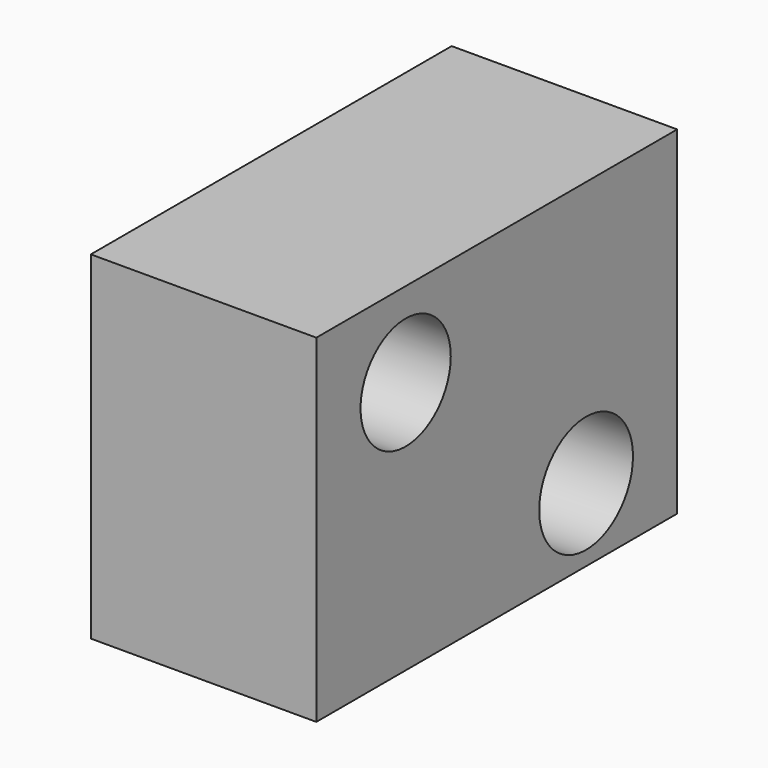
from build123d import *

# Parameters (mm, degrees)
F0_W     = 100
F0_H     = 75
F1_DEPTH = 25
F2_R     = 12.5
F2_R_2   = 13
F3_DEPTH = 50


with BuildPart() as f1:
    # F0 (on Right) → F1 (new body, symmetric)
    with BuildSketch(Plane.YZ):
        with Locations((0.247445, 1.312858)):
            Rectangle(F0_W, F0_H)
    extrude(amount=F1_DEPTH, both=True)

    # F2 (on Right) → F3 (cut, symmetric)
    with BuildSketch(Plane.YZ):
        with Locations((-25, 20)):
            Circle(F2_R)
        with Locations((25, -20)):
            Circle(F2_R_2)
    extrude(amount=F3_DEPTH, both=True, mode=Mode.SUBTRACT)


solid = f1.part
